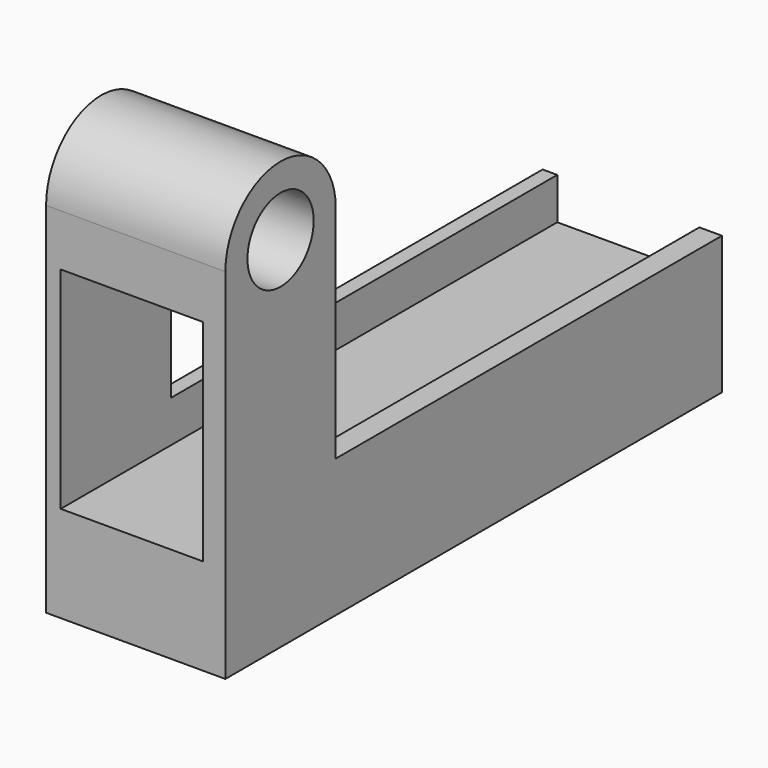
from build123d import *

# Parameters (mm, degrees)
SKETCH_R     = 3
PAD_DEPTH    = 13
SKETCH001_W  = 15.280671
SKETCH001_H  = 10.299273
POCKET_DEPTH = 46


with BuildPart() as part:
    # Sketch → Pad (new body)
    with BuildSketch(Plane.YZ):
        with BuildLine():
            Line((0, 0), (45, 0))
            Line((45, 0), (45, 10))
            Line((45, 10), (20, 10))
            Line((20, 10), (10, 10))
            Line((10, 10), (10, 26))
            ThreePointArc((10, 26), (5, 31), (0, 26))
            Line((0, 26), (0, 0))
        make_face()
        with Locations((5, 26)):
            Circle(SKETCH_R, mode=Mode.SUBTRACT)
    extrude(amount=PAD_DEPTH)

    # Sketch001 (on DatumPlane) → Pocket (cut)
    with BuildSketch(Plane.ZX.offset(45)):
        with Locations((14.617652, 6.211655)):
            Rectangle(SKETCH001_W, SKETCH001_H)
    extrude(amount=-POCKET_DEPTH, mode=Mode.SUBTRACT)


solid = part.part
